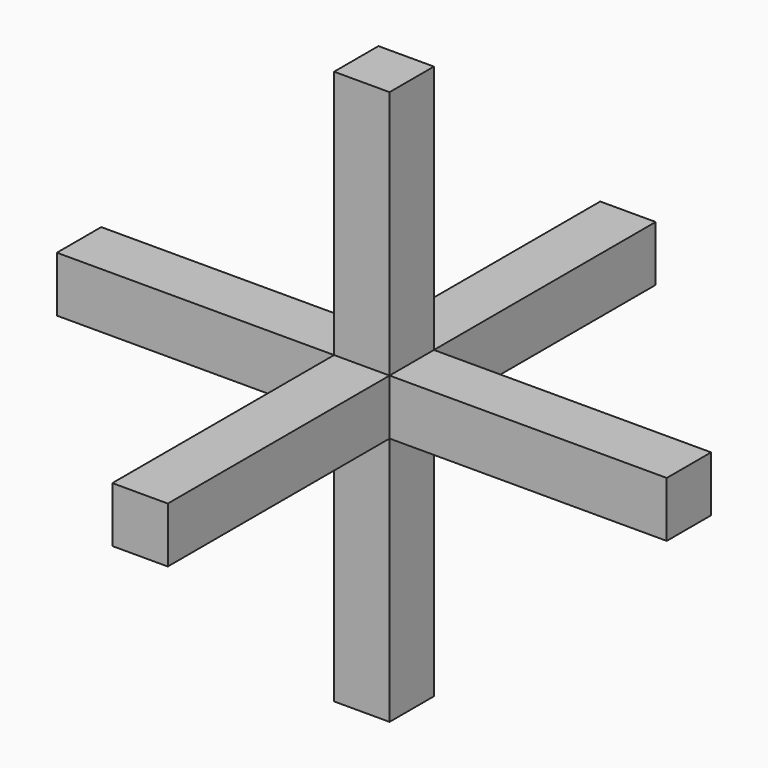
from build123d import *

# Parameters (mm, degrees)
PAD_DEPTH    = 2
SKETCH001_W  = 2
SKETCH001_H  = 2
PAD001_DEPTH = 9
SKETCH002_W  = 2
SKETCH002_H  = 2
PAD002_DEPTH = 9


with BuildPart() as part:
    # Sketch → Pad (new body)
    with BuildSketch(Plane.XY):
        Polygon((-1, 1), (-1, 11), (1, 11), (1, 1), (11, 1), (11, -1), (1, -1), (1, -11), (-1, -11), (-1, -1), (-11, -1), (-11, 1), align=None)
    extrude(amount=PAD_DEPTH)

    # Sketch001 → Pad001 (new body)
    with BuildSketch(Plane.XY.offset(2)):
        Rectangle(SKETCH001_W, SKETCH001_H)
    extrude(amount=PAD001_DEPTH)

    # Sketch002 → Pad002 (new body)
    with BuildSketch(Plane(origin=(0, 0, 0), x_dir=(1, 0, 0), z_dir=(0, 0, -1))):
        Rectangle(SKETCH002_W, SKETCH002_H)
    extrude(amount=PAD002_DEPTH)


solid = part.part
